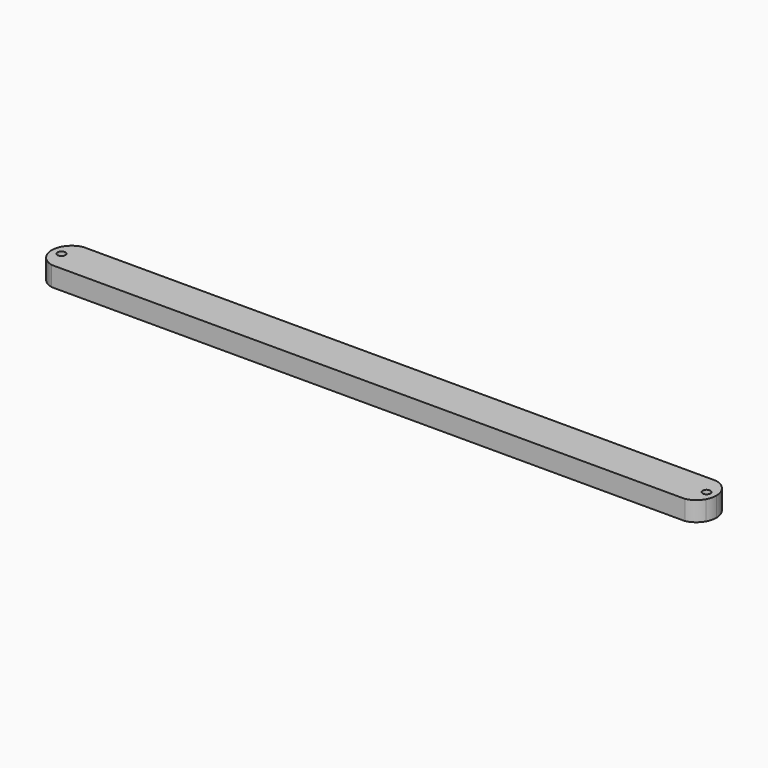
from build123d import *

# Parameters (mm, degrees)
F1_R     = 0.635
F2_DEPTH = 3.175


with BuildPart() as f2:
    # F1 (on Top) → F2 (new body)
    with BuildSketch(Plane.XY):
        with BuildLine():
            ThreePointArc((0.9525, 6.35), (-0.2799330401, 5.7828525832), (-1.1740404142, 4.7625))
            Line((-1.1740404142, 4.7625), (4.5077904142, 4.7625))
            ThreePointArc((4.5077904142, 4.7625), (3.6136830401, 5.7828525832), (2.38125, 6.35))
            Line((2.38125, 6.35), (0.9525, 6.35))
        make_face()
        with BuildLine():
            Line((4.5077904142, 4.7625), (-1.1740404142, 4.7625))
            ThreePointArc((-1.1740404142, 4.7625), (-1.4824392699, 3.9952294007), (-1.5875, 3.175))
            ThreePointArc((-1.5875, 3.175), (-1.4824392699, 2.3547705993), (-1.1740404142, 1.5875))
            Line((-1.1740404142, 1.5875), (4.5077904142, 1.5875))
            ThreePointArc((4.5077904142, 1.5875), (4.8161892699, 2.3547705993), (4.92125, 3.175))
            ThreePointArc((4.92125, 3.175), (4.8161892699, 3.9952294007), (4.5077904142, 4.7625))
        make_face()
        with Locations((0, 3.175)):
            Circle(F1_R, mode=Mode.SUBTRACT)
        with BuildLine():
            Line((4.5077904142, 1.5875), (-1.1740404142, 1.5875))
            ThreePointArc((-1.1740404142, 1.5875), (-0.2799330401, 0.5671474168), (0.9525, 0))
            Line((0.9525, 0), (2.38125, 0))
            ThreePointArc((2.38125, 0), (3.6136830401, 0.5671474168), (4.5077904142, 1.5875))
        make_face()
        with BuildLine():
            Line((100.2672095858, 1.5875), (4.5077904142, 1.5875))
            ThreePointArc((4.5077904142, 1.5875), (3.6136830401, 0.5671474168), (2.38125, 0))
            Line((2.38125, 0), (102.39375, 0))
            ThreePointArc((102.39375, 0), (101.1613169599, 0.5671474168), (100.2672095858, 1.5875))
        make_face()
        with BuildLine():
            ThreePointArc((2.38125, 6.35), (3.6136830401, 5.7828525832), (4.5077904142, 4.7625))
            Line((4.5077904142, 4.7625), (100.2672095858, 4.7625))
            ThreePointArc((100.2672095858, 4.7625), (101.1613169599, 5.7828525832), (102.39375, 6.35))
            Line((102.39375, 6.35), (2.38125, 6.35))
        make_face()
        with BuildLine():
            Line((100.2672095858, 4.7625), (4.5077904142, 4.7625))
            ThreePointArc((4.5077904142, 4.7625), (4.8161892699, 3.9952294007), (4.92125, 3.175))
            ThreePointArc((4.92125, 3.175), (4.8161892699, 2.3547705993), (4.5077904142, 1.5875))
            Line((4.5077904142, 1.5875), (100.2672095858, 1.5875))
            ThreePointArc((100.2672095858, 1.5875), (99.85375, 3.175), (100.2672095858, 4.7625))
        make_face()
        with BuildLine():
            ThreePointArc((102.39375, 6.35), (101.1613169599, 5.7828525832), (100.2672095858, 4.7625))
            Line((100.2672095858, 4.7625), (105.9490404142, 4.7625))
            ThreePointArc((105.9490404142, 4.7625), (105.0549330401, 5.7828525832), (103.8225, 6.35))
            Line((103.8225, 6.35), (102.39375, 6.35))
        make_face()
        with BuildLine():
            Line((105.9490404142, 4.7625), (100.2672095858, 4.7625))
            ThreePointArc((100.2672095858, 4.7625), (99.85375, 3.175), (100.2672095858, 1.5875))
            Line((100.2672095858, 1.5875), (105.9490404142, 1.5875))
            ThreePointArc((105.9490404142, 1.5875), (106.2574392699, 2.3547705993), (106.3625, 3.175))
            ThreePointArc((106.3625, 3.175), (106.2574392699, 3.9952294007), (105.9490404142, 4.7625))
        make_face()
        with Locations((104.775, 3.175)):
            Circle(F1_R, mode=Mode.SUBTRACT)
        with BuildLine():
            Line((105.9490404142, 1.5875), (100.2672095858, 1.5875))
            ThreePointArc((100.2672095858, 1.5875), (101.1613169599, 0.5671474168), (102.39375, 0))
            Line((102.39375, 0), (103.8225, 0))
            ThreePointArc((103.8225, 0), (105.0549330401, 0.5671474168), (105.9490404142, 1.5875))
        make_face()
    extrude(amount=F2_DEPTH)


solid = f2.part
